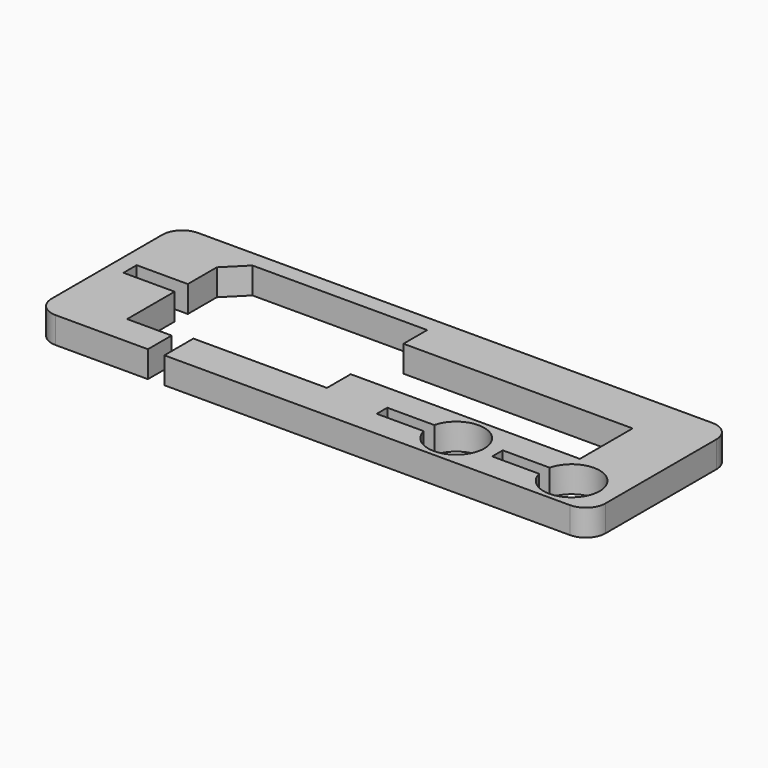
from build123d import *

# Parameters (mm, degrees)
F0_W     = 1066.8
F0_H     = 342.9
F1_DEPTH = 50.8
F3_DEPTH = 50.8
F4_R     = 38.1
F6_DEPTH = 50.8
F8_DEPTH = 50.8


with BuildPart() as f1:
    # F0 (on Top) → F1 (new body)
    with BuildSketch(Plane.XY):
        Rectangle(F0_W, F0_H)
    extrude(amount=F1_DEPTH)

    # F2 (on face) → F3 (cut)
    with BuildSketch(Plane.XY.offset(50.8)):
        Polygon((-317.5, -114.3), (-317.5, -171.45), (-285.75, -171.45), (-285.75, -101.6), (-28.575, -101.6), (-28.575, -44.45), (412.75, -44.45), (412.75, 82.55), (-28.575, 82.55), (-28.575, 139.7), (-365.125, 139.7), (-403.225, 101.537321), (-403.225, 31.75), (-501.65, 31.75), (-501.65, 0), (-403.225, 0), (-403.225, -114.3), align=None)
    extrude(amount=-F3_DEPTH, mode=Mode.SUBTRACT)

    # F4
    f4_edges = [f1.edges().sort_by_distance(p)[0] for p in [
        (-533.4, 171.45, 25.4),
        (-533.4, -171.45, 25.4),
        (533.4, 171.45, 25.4),
        (533.4, -171.45, 25.4),
    ]]
    fillet(f4_edges, radius=F4_R)

    # F5 (on face) → F6 (cut)
    with BuildSketch(Plane.XY.offset(50.8)):
        with BuildLine():
            Line((172.965391, -95.25), (82.55, -95.25))
            Line((82.55, -95.25), (82.55, -120.65))
            Line((82.55, -120.65), (172.965391, -120.65))
            ThreePointArc((172.965391, -120.65), (171.45, -107.95), (172.965391, -95.25))
        make_face()
        with BuildLine():
            ThreePointArc((279.4, -107.95), (231.820045, -54.355187), (172.965391, -95.25))
            ThreePointArc((172.965391, -95.25), (171.45, -107.95), (172.965391, -120.65))
            ThreePointArc((172.965391, -120.65), (231.820045, -161.544813), (279.4, -107.95))
        make_face()
    extrude(amount=-F6_DEPTH, mode=Mode.SUBTRACT)

    # F7 (on face) → F8 (cut)
    with BuildSketch(Plane.XY.offset(50.8)):
        with BuildLine():
            Line((395.215391, -95.25), (304.8, -95.25))
            Line((304.8, -95.25), (304.8, -120.65))
            Line((304.8, -120.65), (395.215391, -120.65))
            ThreePointArc((395.215391, -120.65), (393.7, -107.95), (395.215391, -95.25))
        make_face()
        with BuildLine():
            ThreePointArc((501.65, -107.95), (454.070045, -54.355187), (395.215391, -95.25))
            ThreePointArc((395.215391, -95.25), (393.7, -107.95), (395.215391, -120.65))
            ThreePointArc((395.215391, -120.65), (454.070045, -161.544813), (501.65, -107.95))
        make_face()
    extrude(amount=-F8_DEPTH, mode=Mode.SUBTRACT)


solid = f1.part
